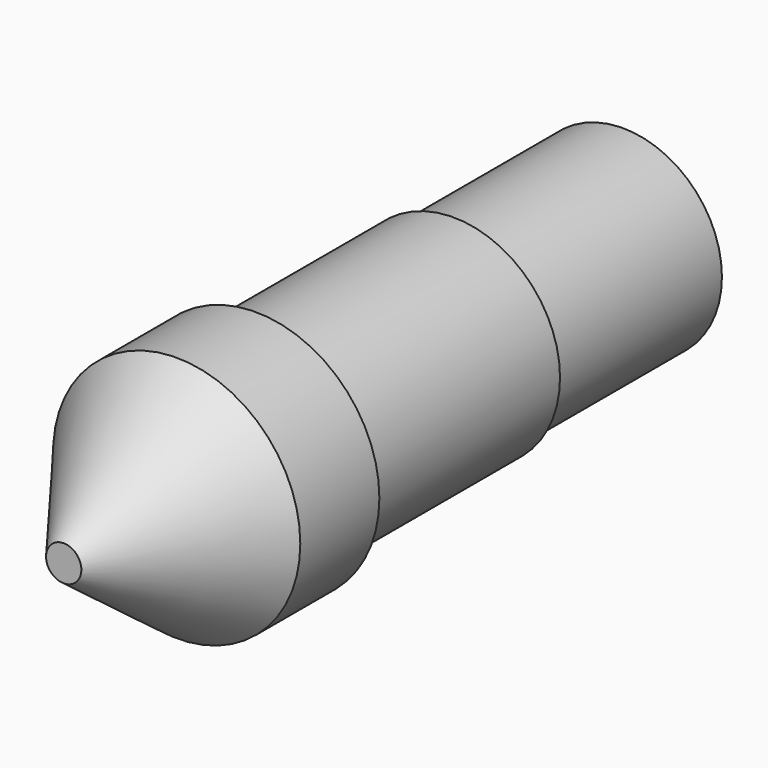
from build123d import *

# Parameters (mm, degrees)
F0_R     = 1.4
F1_DEPTH = 3
F2_R     = 1.5075
F2_R_2   = 1.4
F3_DEPTH = 3.5
F4_R     = 1.75
F4_R_2   = 1.5075
F5_DEPTH = 3.4
F6_SIZE2 = 2
F6_SIZE  = 1.5


with BuildPart() as f1:
    # F0 (on Front) → F1 (new body)
    with BuildSketch(Plane.XZ):
        Circle(F0_R)
    extrude(amount=F1_DEPTH)


with BuildPart() as f3:
    # F2 (on face) → F3 (new body)
    with BuildSketch(Plane.XZ.offset(3)):
        Circle(F2_R)
        Circle(F2_R_2, mode=Mode.SUBTRACT)
        Circle(F2_R_2)
    extrude(amount=F3_DEPTH)


with BuildPart() as f5:
    # F4 (on face) → F5 (new body)
    with BuildSketch(Plane.XZ.offset(6.5)):
        Circle(F4_R)
        Circle(F4_R_2, mode=Mode.SUBTRACT)
        Circle(F4_R_2)
    extrude(amount=F5_DEPTH)

    # F6
    f6_edges = [f5.edges().sort_by_distance(p)[0] for p in [
        (-1.75, -9.9, 0),
    ]]
    f6_side = f5.faces().sort_by_distance((0, -9.9, 0))[0]
    chamfer(f6_edges, length=F6_SIZE, length2=F6_SIZE2, reference=f6_side)


solid = Compound([f1.part, f3.part, f5.part])
